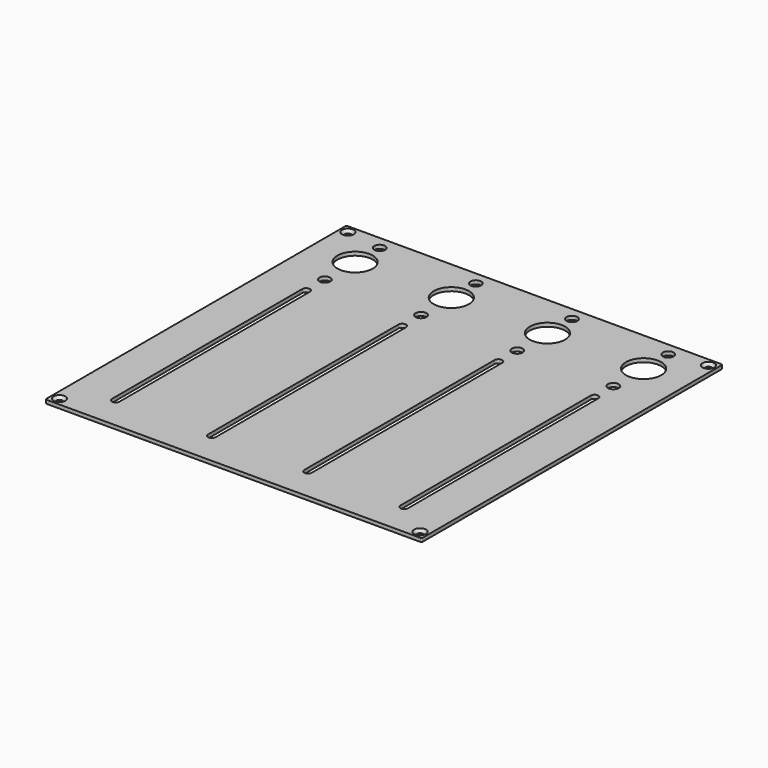
from build123d import *

# Parameters (mm, degrees)
PAD_DEPTH        = 1
POCKET_DEPTH     = 0.001
HOLE_D           = 1.75
HOLE_CSINK_D     = 3.3
HOLE_CSINK_ANGLE = 90
SKETCH020_R      = 4.9
HOLE012_DEPTH    = 1.001
POCKET006_DEPTH  = 1.001
SKETCH022_R      = 1.5
HOLE013_DEPTH    = 1.001


with BuildPart() as part:
    # Sketch → Pad (new body)
    with BuildSketch(Plane.XY):
        with BuildLine():
            Line((-51.8, 52.175), (51.8, 52.175))
            ThreePointArc((52.175, 51.8), (52.065165, 52.065165), (51.8, 52.175))
            Line((52.175, 51.8), (52.175, -51.8))
            ThreePointArc((51.8, -52.175), (52.065165, -52.065165), (52.175, -51.8))
            Line((51.8, -52.175), (-51.8, -52.175))
            ThreePointArc((-52.175, -51.8), (-52.065165, -52.065165), (-51.8, -52.175))
            Line((-52.175, -51.8), (-52.175, 51.8))
            ThreePointArc((-51.8, 52.175), (-52.065165, 52.065165), (-52.175, 51.8))
        make_face()
    extrude(amount=-PAD_DEPTH)

    # Sketch002 → Pocket (cut, through all)
    with BuildSketch(Plane.XY.offset(-4.8)):
        with BuildLine():
            Line((-45, 50.175), (45, 50.175))
            ThreePointArc((45, 50.175), (45.353553, 50.321447), (45.5, 50.675))
            ThreePointArc((45.5, 50.675), (45.353553, 51.028553), (45, 51.175))
            Line((-45, 51.175), (45, 51.175))
            ThreePointArc((-45, 51.175), (-45.353553, 51.028553), (-45.5, 50.675))
            ThreePointArc((-45.5, 50.675), (-45.353553, 50.321447), (-45, 50.175))
        make_face()
        with BuildLine():
            Line((-45, -51.175), (45, -51.175))
            ThreePointArc((45, -51.175), (45.353553, -51.028553), (45.5, -50.675))
            ThreePointArc((45.5, -50.675), (45.353553, -50.321447), (45, -50.175))
            Line((-45, -50.175), (45, -50.175))
            ThreePointArc((-45, -50.175), (-45.353553, -50.321447), (-45.5, -50.675))
            ThreePointArc((-45.5, -50.675), (-45.353553, -51.028553), (-45, -51.175))
        make_face()
        with BuildLine():
            Line((51.175, -45), (51.175, 45))
            ThreePointArc((51.175, 45), (51.028553, 45.353553), (50.675, 45.5))
            ThreePointArc((50.675, 45.5), (50.321447, 45.353553), (50.175, 45))
            Line((50.175, -45), (50.175, 45))
            ThreePointArc((50.175, -45), (50.321447, -45.353553), (50.675, -45.5))
            ThreePointArc((50.675, -45.5), (51.028553, -45.353553), (51.175, -45))
        make_face()
        with BuildLine():
            Line((-50.175, -45), (-50.175, 45))
            ThreePointArc((-50.175, 45), (-50.321447, 45.353553), (-50.675, 45.5))
            ThreePointArc((-50.675, 45.5), (-51.028553, 45.353553), (-51.175, 45))
            Line((-51.175, -45), (-51.175, 45))
            ThreePointArc((-51.175, -45), (-51.028553, -45.353553), (-50.675, -45.5))
            ThreePointArc((-50.675, -45.5), (-50.321447, -45.353553), (-50.175, -45))
        make_face()
    extrude(amount=-POCKET_DEPTH, mode=Mode.SUBTRACT)

    # Hole (through all)
    with Locations(Plane.XY):
        with Locations((-50, 50), (50, 50), (50, -50), (-50, -50)):
            CounterSinkHole(HOLE_D / 2, HOLE_CSINK_D / 2, counter_sink_angle=HOLE_CSINK_ANGLE)

    # Sketch020 → Hole012 (cut, through all)
    with BuildSketch(Plane.XY):
        with Locations((-40.005, 40.005)):
            Circle(SKETCH020_R)
        with Locations((-13.335, 40.005)):
            Circle(SKETCH020_R)
        with Locations((13.335, 40.005)):
            Circle(SKETCH020_R)
        with Locations((40.005, 40.005)):
            Circle(SKETCH020_R)
    extrude(amount=-HOLE012_DEPTH, mode=Mode.SUBTRACT)

    # Sketch021 → Pocket006 (cut, through all)
    with BuildSketch(Plane.XY):
        with BuildLine():
            ThreePointArc((-38.955, 23), (-40.005, 24.05), (-41.055, 23))
            Line((-41.055, 23), (-41.055, -43))
            ThreePointArc((-41.055, -43), (-40.005, -44.05), (-38.955, -43))
            Line((-38.955, 23), (-38.955, -43))
        make_face()
        with BuildLine():
            ThreePointArc((-12.285, 23), (-13.335, 24.05), (-14.385, 23))
            Line((-14.385, 23), (-14.385, -43))
            ThreePointArc((-14.385, -43), (-13.335, -44.05), (-12.285, -43))
            Line((-12.285, 23), (-12.285, -43))
        make_face()
        with BuildLine():
            ThreePointArc((14.385, 23), (13.335, 24.05), (12.285, 23))
            Line((12.285, 23), (12.285, -43))
            ThreePointArc((12.285, -43), (13.335, -44.05), (14.385, -43))
            Line((14.385, 23), (14.385, -43))
        make_face()
        with BuildLine():
            ThreePointArc((41.055, 23), (40.005, 24.05), (38.955, 23))
            Line((38.955, 23), (38.955, -43))
            ThreePointArc((38.955, -43), (40.005, -44.05), (41.055, -43))
            Line((41.055, 23), (41.055, -43))
        make_face()
    extrude(amount=-POCKET006_DEPTH, mode=Mode.SUBTRACT)

    # Sketch022 → Hole013 (cut, through all)
    with BuildSketch(Plane.XY):
        with Locations((-40.005, 48.505)):
            Circle(SKETCH022_R)
        with Locations((-13.335, 48.505)):
            Circle(SKETCH022_R)
        with Locations((13.335, 48.505)):
            Circle(SKETCH022_R)
        with Locations((40.005, 48.505)):
            Circle(SKETCH022_R)
        with Locations((-40.005, 29.5)):
            Circle(SKETCH022_R)
        with Locations((-13.335, 29.5)):
            Circle(SKETCH022_R)
        with Locations((13.335, 29.5)):
            Circle(SKETCH022_R)
        with Locations((40.005, 29.5)):
            Circle(SKETCH022_R)
    extrude(amount=-HOLE013_DEPTH, mode=Mode.SUBTRACT)


solid = part.part
